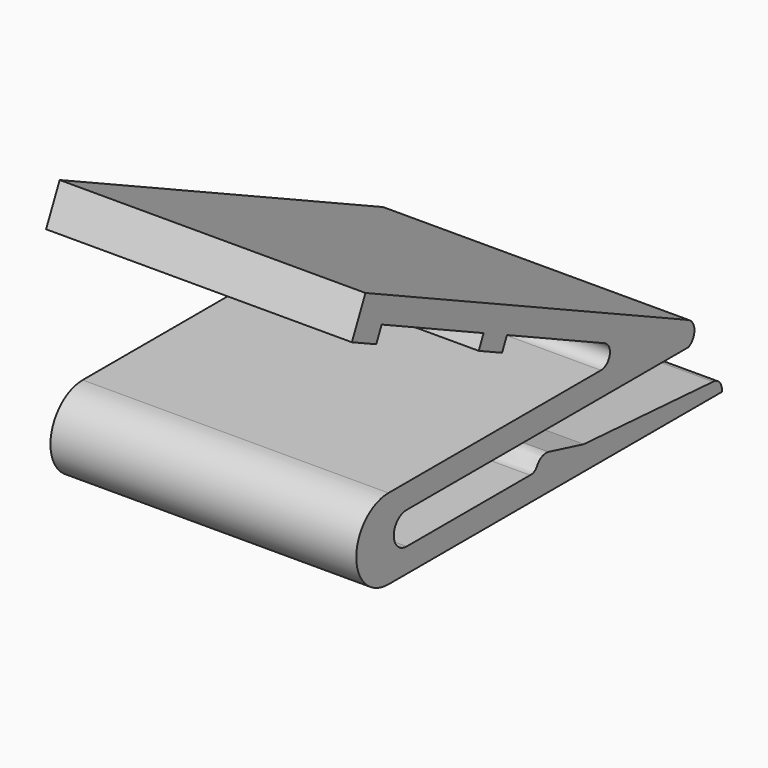
from build123d import *

# Parameters (mm, degrees)
F1_DEPTH = 38


with BuildPart() as f1:
    # F0 (on Right) → F1 (new body)
    with BuildSketch(Plane.YZ):
        with BuildLine():
            Line((23.1784938408, 7.3404949656), (-26.9544725425, 30.6728171964))
            Line((-26.9544725425, 30.6728171964), (-29.0642163024, 26.1397187784))
            Line((-29.0642163024, 26.1397187784), (-25.2792367342, 24.3781560923))
            Line((-25.2792367342, 24.3781560923), (-24.4353392302, 26.1913954595))
            Line((-24.4353392302, 26.1913954595), (-8.6015913085, 18.8222303117))
            Line((-8.6015913085, 18.8222303117), (-4.9751125741, 17.1344353037))
            Line((-4.9751125741, 17.1344353037), (10.196499811, 10.0734338416))
            ThreePointArc((10.196499811, 10.0734338416), (10.9945858506, 8.4791535259), (9.622679245, 7.3404949656))
            Line((9.622679245, 7.3404949656), (-23.3830297366, 7.3404949656))
            ThreePointArc((-23.3830297366, 7.3404949656), (-28.3830297366, 2.3404949656), (-23.3830297366, -2.6595050344))
            Line((-23.3830297366, -2.6595050344), (28.398775626, -2.6595050344))
            ThreePointArc((28.398775626, -2.6595050344), (28.0967892497, -1.5204149704), (27.04585623, -0.9872529561))
            Line((27.04585623, -0.9872529561), (6.9608287197, 0.3404949656))
            Line((6.9608287197, 0.3404949656), (-1.3752970852, 0.3404949656))
            Line((-1.3752970852, 0.3404949656), (-20.556285046, 0.3404949656))
            ThreePointArc((-20.556285046, 0.3404949656), (-22.556285046, 2.3404949656), (-20.556285046, 4.3404949656))
            Line((-20.556285046, 4.3404949656), (23.2424221743, 4.3404949656))
            ThreePointArc((23.2424221743, 4.3404949656), (24.1445174201, 5.8603992528), (23.1784938408, 7.3404949656))
        make_face()
        Polygon((-4.9751125741, 17.1344353037), (-8.6015913085, 18.8222303117), (-9.3610990621, 17.1903148812), (-5.7346203277, 15.5025198732), align=None)
        with BuildLine():
            add(Edge.make_bspline(
                [(1.4606168205, 1.7329922686), (1.1436558288, 1.7871075713), (0.8497644378, 1.7590409522), (0.379445235, 1.6089129442), (0.0647246652, 1.3977187452), (-0.2380342771, 1.0209154553), (-0.3735748994, 0.7537879531), (-0.5838778916, 0.5462043773), (-0.8628590523, 0.3860881967), (-1.0687756769, 0.3404949656), (-1.3752970852, 0.3404949656)],
                knots=[0, 0, 0, 0, 0.1572167761, 0.2866288548, 0.4074944161, 0.541536882, 0.6488183664, 0.7528284065, 0.8555278808, 1, 1, 1, 1], degree=3))
            Line((-1.3752970852, 0.3404949656), (6.9608287197, 0.3404949656))
            Line((6.9608287197, 0.3404949656), (1.4606168205, 1.7329922686))
        make_face()
    extrude(amount=F1_DEPTH)


solid = f1.part
